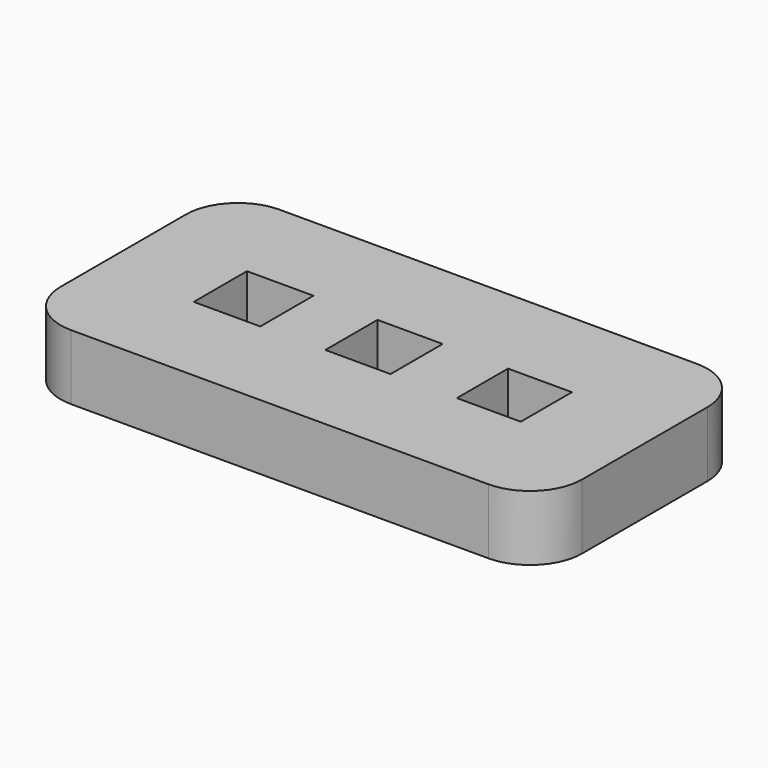
from build123d import *

# Parameters (mm, degrees)
F0_W     = 50.8
F0_H     = 25.4
F1_DEPTH = 6.35
F2_W     = 6.477
F2_H     = 6.477
F2_W_2   = 6.35
F2_H_2   = 6.35
F2_W_3   = 6.223
F2_H_3   = 6.223
F3_DEPTH = 25.4
F4_R     = 5.08


with BuildPart() as f1:
    # F0 (on Top) → F1 (new body)
    with BuildSketch(Plane.XY):
        with Locations((25.4, 12.7)):
            Rectangle(F0_W, F0_H)
    extrude(amount=F1_DEPTH)

    # F2 (on face) → F3 (cut)
    with BuildSketch(Plane.XY.offset(6.35)):
        with Locations((12.7, 12.7)):
            Rectangle(F2_W, F2_H)
        with Locations((25.4, 12.7)):
            Rectangle(F2_W_2, F2_H_2)
        with Locations((38.1, 12.7)):
            Rectangle(F2_W_3, F2_H_3)
    extrude(amount=-F3_DEPTH, mode=Mode.SUBTRACT)

    # F4
    f4_edges = [f1.edges().sort_by_distance(p)[0] for p in [
        (0, 25.4, 3.175),
        (0, 0, 3.175),
        (50.8, 25.4, 3.175),
        (50.8, 0, 3.175),
    ]]
    fillet(f4_edges, radius=F4_R)


solid = f1.part
